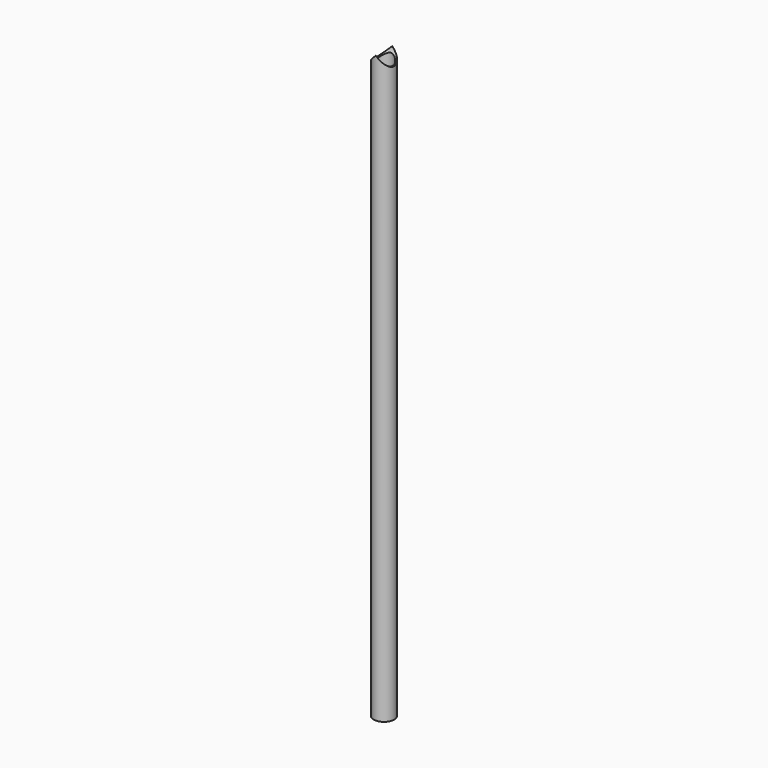
from build123d import *

# Parameters (mm, degrees)
F0_R     = 17.5
F0_R_2   = 15
F1_DEPTH = 1000
F2_R     = 17.5
F3_DEPTH = 25


with BuildPart() as f1:
    # F0 (on Top) → F1 (new body)
    with BuildSketch(Plane.XY):
        Circle(F0_R)
        Circle(F0_R_2, mode=Mode.SUBTRACT)
    extrude(amount=F1_DEPTH)

    # F2 (on Right) → F3 (cut, symmetric)
    with BuildSketch(Plane.YZ):
        with Locations((0, 1000)):
            Circle(F2_R)
    extrude(amount=F3_DEPTH, both=True, mode=Mode.SUBTRACT)


solid = f1.part
